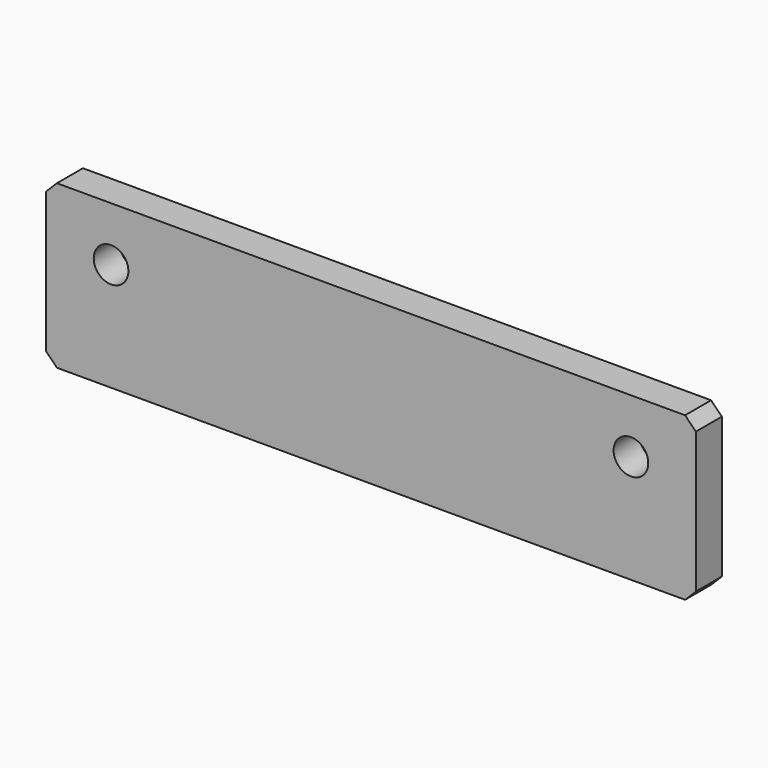
from build123d import *

# Parameters (mm, degrees)
SKETCH001_W             = 60
SKETCH001_H             = 15
PAD001_DEPTH            = 3
CHAMFER_SIZE            = 1
SKETCH005_R             = 1.6
POCKET002_DEPTH         = 3.001
BODY001_PLACEMENT_ANGLE = 90.00001


with BuildPart() as part:
    # Sketch001 → Pad001 (new body)
    with BuildSketch(Plane.YZ):
        with Locations((0, 2.5)):
            Rectangle(SKETCH001_W, SKETCH001_H)
    extrude(amount=-PAD001_DEPTH)

    # Chamfer
    chamfer_edges = [part.edges().sort_by_distance(p)[0] for p in [
        (-1.5, 30, 10),
        (-1.5, -30, 10),
        (-1.5, -30, -5),
        (-1.5, 30, -5),
    ]]
    chamfer(chamfer_edges, length=CHAMFER_SIZE)

    # Sketch005 → Pocket002 (cut, through all)
    with BuildSketch(Plane.YZ):
        with Locations((-24, 5)):
            Circle(SKETCH005_R)
        with Locations((24, 5)):
            Circle(SKETCH005_R)
    extrude(amount=-POCKET002_DEPTH, mode=Mode.SUBTRACT)


with BuildPart() as part_1:
    # Body001 placement: moved
    add(part.part.rotate(Axis((0, 0, 0), (0, 0, 1)), BODY001_PLACEMENT_ANGLE))


solid = part_1.part
